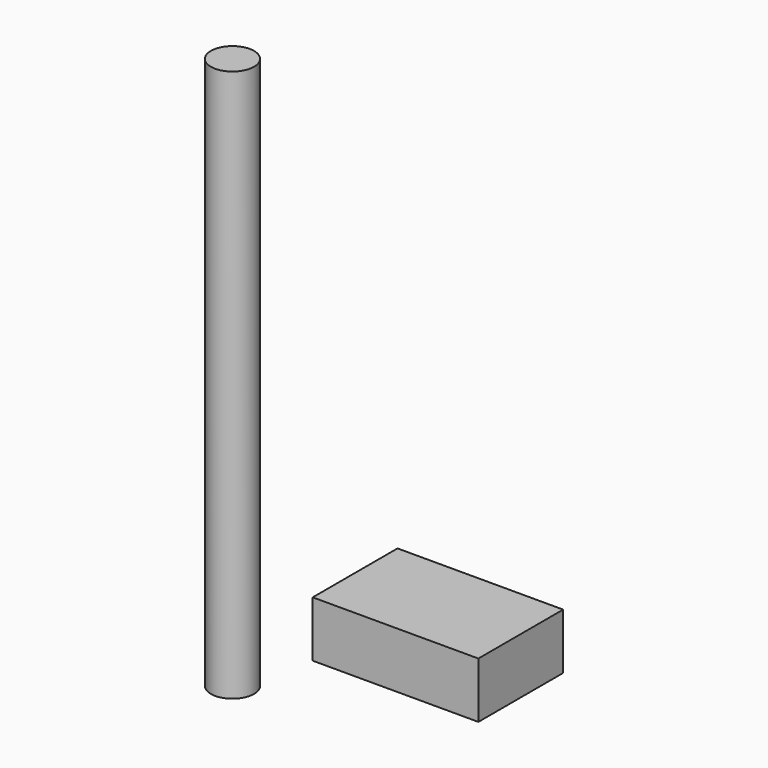
from build123d import *

# Parameters (mm, degrees)
F0_R     = 9.918183
F1_DEPTH = 254
F2_W     = 48.751809
F2_H     = 25.678962
F3_DEPTH = 76.2


with BuildPart() as f1:
    # F0 (on Top) → F1 (new body)
    with BuildSketch(Plane.XY):
        with Locations((-49.979053, -32.437287)):
            Circle(F0_R)
    extrude(amount=F1_DEPTH)


with BuildPart() as f3:
    # F2 (on Right) → F3 (new body)
    with BuildSketch(Plane.YZ):
        with Locations((-24.375904, 45.959424)):
            Rectangle(F2_W, F2_H)
    extrude(amount=F3_DEPTH)


solid = Compound([f1.part, f3.part])
